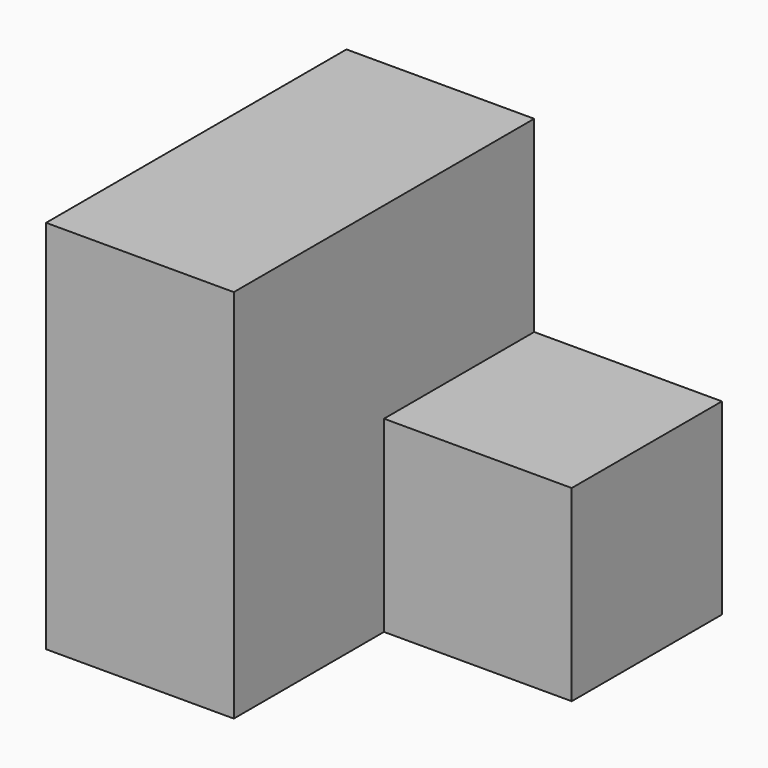
from build123d import *

# Parameters (mm, degrees)
F1_DEPTH = 50.8
F2_W     = 25.4
F2_H     = 25.4
F3_DEPTH = 25.4


with BuildPart() as f1:
    # F0 (on Front) → F1 (new body)
    with BuildSketch(Plane.XZ):
        Polygon((-25.4, 0), (0, 0), (0, 50.8), (-25.4, 50.8), (-25.4, 25.4), align=None)
    extrude(amount=F1_DEPTH)

    # F2 (on Front) → F3 (join)
    with BuildSketch(Plane.XZ):
        with Locations((12.7, 12.7)):
            Rectangle(F2_W, F2_H)
    extrude(amount=F3_DEPTH)


solid = f1.part
